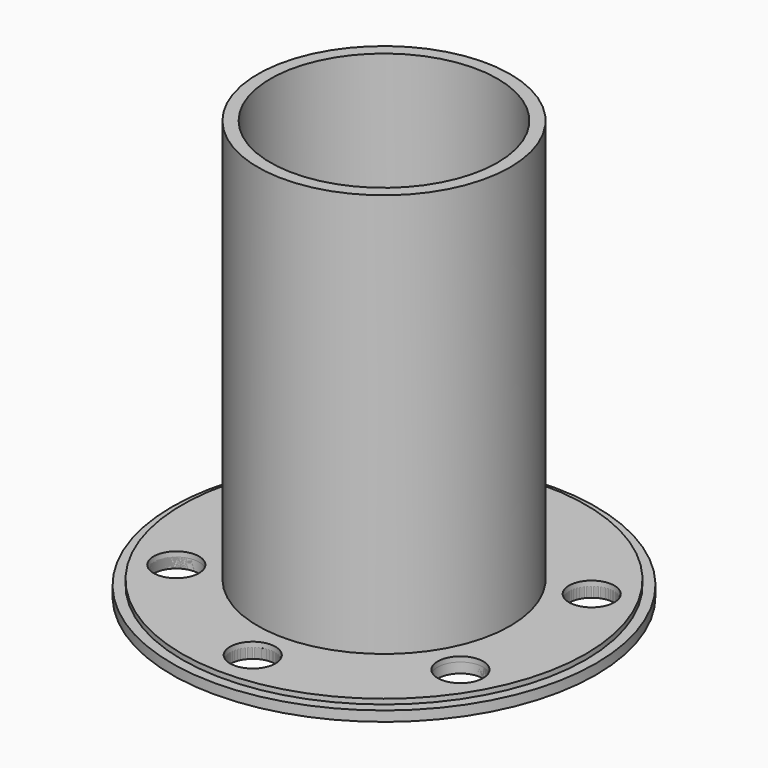
from build123d import *

# Parameters (mm, degrees)
SKETCH_R           = 40
PAD_DEPTH          = 3
SKETCH001_R        = 25
PAD001_DEPTH       = 80
SKETCH002_R        = 22.5
POCKET_DEPTH       = 83.001
SKETCH003_R        = 4.5
POCKET001_DEPTH    = 283.635994
POLARPATTERN_COUNT = 6
SKETCH004_R        = 42
SKETCH004_R_2      = 22.5
SKETCH004_R_3      = 4.5
PAD002_DEPTH       = 2


with BuildPart() as pipe:
    # Sketch → Pad (new body)
    with BuildSketch(Plane.XY):
        Circle(SKETCH_R)
    extrude(amount=PAD_DEPTH)

    # Sketch001 (on Face3 of Pad) → Pad001 (join)
    with BuildSketch(Plane.XY.offset(3)):
        Circle(SKETCH001_R)
    extrude(amount=PAD001_DEPTH)

    # Sketch002 (on Face5 of Pad001) → Pocket (cut, through all)
    with BuildSketch(Plane.XY.offset(83)):
        Circle(SKETCH002_R)
    extrude(amount=-POCKET_DEPTH, mode=Mode.SUBTRACT)

    # Sketch003 (on Face3 of Pocket) → Pocket001 (cut, through all)
    with BuildSketch(Plane.XY.offset(3)):
        with Locations((0, 32.5)):
            Circle(SKETCH003_R)
    pocket001 = extrude(amount=-POCKET001_DEPTH, mode=Mode.SUBTRACT)

    # PolarPattern: Pocket001 ×6 about axis
    polarpattern_axis = Axis((0, 0, 3), (0, 0, 1))
    for i in range(1, POLARPATTERN_COUNT):
        add(pocket001.rotate(polarpattern_axis, i * 360 / POLARPATTERN_COUNT), mode=Mode.SUBTRACT)


with BuildPart() as gasket:
    # Sketch004 → Pad002 (new body)
    with BuildSketch(Plane.XY):
        Circle(SKETCH004_R)
        Circle(SKETCH004_R_2, mode=Mode.SUBTRACT)
        with Locations((0, 32.5)):
            Circle(SKETCH004_R_3, mode=Mode.SUBTRACT)
        with Locations((28.145826, -16.25)):
            Circle(SKETCH004_R_3, mode=Mode.SUBTRACT)
        with Locations((-28.145826, -16.25)):
            Circle(SKETCH004_R_3, mode=Mode.SUBTRACT)
        with Locations((28.145826, 16.25)):
            Circle(SKETCH004_R_3, mode=Mode.SUBTRACT)
        with Locations((-28.145826, 16.25)):
            Circle(SKETCH004_R_3, mode=Mode.SUBTRACT)
        with Locations((0, -32.5)):
            Circle(SKETCH004_R_3, mode=Mode.SUBTRACT)
    extrude(amount=PAD002_DEPTH)


solid = Compound([pipe.part, gasket.part])
